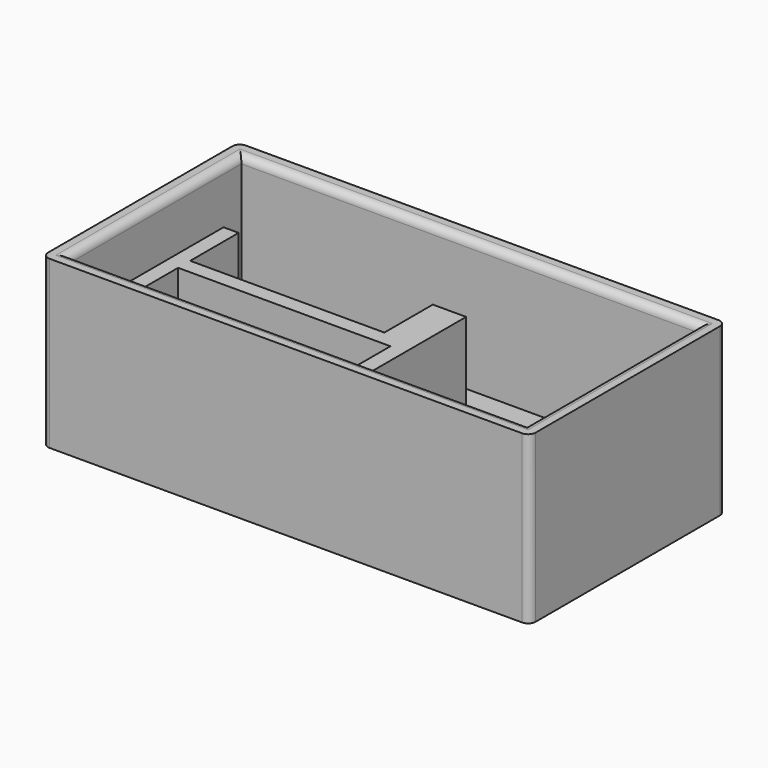
from build123d import *

# Parameters (mm, degrees)
SKETCH001_W   = 64.4
SKETCH001_H   = 32.4
SKETCH001_R   = 2.5
PAD_DEPTH     = 2
SKETCH002_W   = 64.4
SKETCH002_H   = 32.4
SKETCH002_W_2 = 60.4
SKETCH002_H_2 = 28.4
PAD001_DEPTH  = 22
SKETCH003_W   = 64.4
SKETCH003_H   = 32.4
SKETCH003_R   = 4
PAD002_DEPTH  = 4.5
FILLET_R      = 1
PAD003_DEPTH  = 15


with BuildPart() as body:
    # Sketch001 → Pad (new body)
    with BuildSketch(Plane.XY):
        with Locations((30, 14)):
            Rectangle(SKETCH001_W, SKETCH001_H)
        with Locations((49.25, 18.2)):
            Circle(SKETCH001_R, mode=Mode.SUBTRACT)
        with Locations((10.75, 18.2)):
            Circle(SKETCH001_R, mode=Mode.SUBTRACT)
    extrude(amount=PAD_DEPTH)

    # Sketch002 → Pad001 (join)
    with BuildSketch(Plane.XY):
        with Locations((30, 14)):
            Rectangle(SKETCH002_W, SKETCH002_H)
        with Locations((30, 14)):
            Rectangle(SKETCH002_W_2, SKETCH002_H_2, mode=Mode.SUBTRACT)
    extrude(amount=PAD001_DEPTH)

    # Sketch003 → Pad002 (join)
    with BuildSketch(Plane.XY):
        with Locations((30, 14)):
            Rectangle(SKETCH003_W, SKETCH003_H)
        with Locations((49.25, 18.2)):
            Circle(SKETCH003_R, mode=Mode.SUBTRACT)
        with Locations((10.75, 18.2)):
            Circle(SKETCH003_R, mode=Mode.SUBTRACT)
    extrude(amount=PAD002_DEPTH)

    # Fillet
    fillet_edges = [body.edges().sort_by_distance(p)[0] for p in [
        (-0.2, 14, 22),
        (30, -0.2, 22),
        (60.2, 14, 22),
        (30, 28.2, 22),
        (62.2, 30.2, 13.25),
        (62.2, -2.2, 13.25),
        (-2.2, -2.2, 13.25),
        (-2.2, 30.2, 13.25),
        (6.75, 18.2, 4.5),
        (45.25, 18.2, 4.5),
    ]]
    fillet(fillet_edges, radius=FILLET_R)


with BuildPart() as body001picoadapter:
    # Sketch004 → Pad003 (new body)
    with BuildSketch(Plane.XY):
        Polygon((0, 0), (0, 25), (2, 25), (2, 17), (27.65, 17), (27.65, 25), (32.05, 25), (32.05, 0), (30.05, 0), (30.05, 15), (2, 15), (2, 0), align=None)
    extrude(amount=PAD003_DEPTH)


solid = Compound([body.part, body001picoadapter.part])
